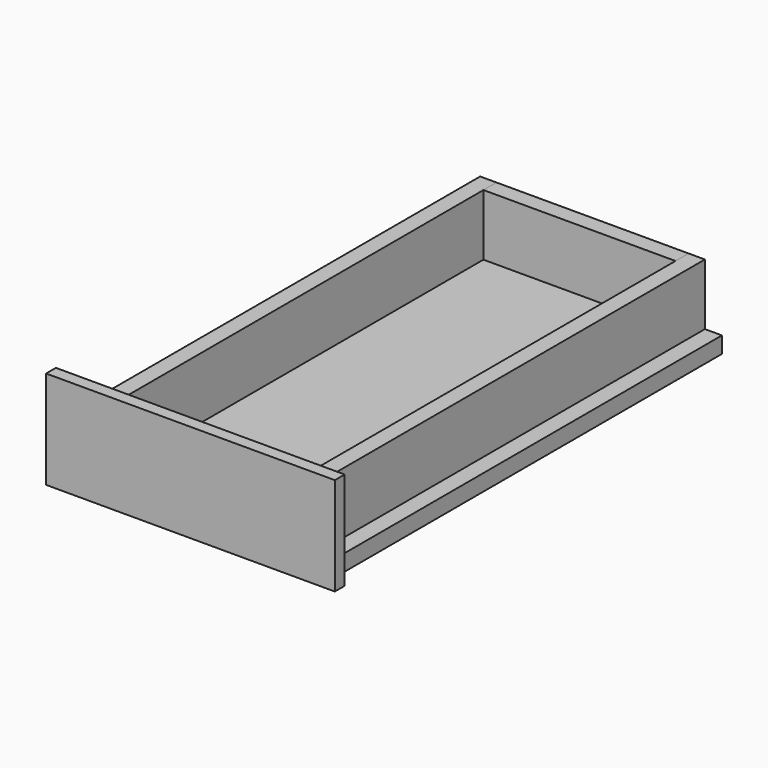
from build123d import *

# Parameters (mm, degrees)
F1_DEPTH = 45
F0_W     = 141
F0_H     = 12
F2_DEPTH = 45
F4_DEPTH = 12
F6_DEPTH = 9


with BuildPart() as f1:
    # F0 (on Top) → F1 (new body)
    with BuildSketch(Plane.XY):
        Polygon((65.376237, -180), (77.376237, -180), (77.376237, 180), (65.376237, 180), (65.376237, 168), (65.376237, -168), align=None)
        Polygon((-87.623763, -180), (-75.623763, -180), (-75.623763, -168), (-75.623763, 168), (-75.623763, 180), (-87.623763, 180), align=None)
    extrude(amount=F1_DEPTH)


with BuildPart() as f2:
    # F0 (on Top) → F2 (new body)
    with BuildSketch(Plane.XY):
        with Locations((-5.123763, 174)):
            Rectangle(F0_W, F0_H)
        with Locations((-5.123763, -174)):
            Rectangle(F0_W, F0_H)
    extrude(amount=F2_DEPTH)


with BuildPart() as f4:
    # F3 (on face) → F4 (new body)
    with BuildSketch(Plane.XY):
        Polygon((-87.623763, -180), (77.376237, -180), (89.876237, -180), (89.876237, 180), (77.376237, 180), (-87.623763, 180), (-100.123763, 180), (-100.123763, -180), align=None)
    extrude(amount=-F4_DEPTH)


with BuildPart() as f6:
    # F5 (on face) → F6 (new body)
    with BuildSketch(Plane.XZ.offset(180)):
        Polygon((-100.123763, -12), (89.876237, -12), (100.876237, -12), (100.876237, 60), (-111.123763, 60), (-111.123763, -12), align=None)
    extrude(amount=F6_DEPTH)


solid = Compound([f1.part, f2.part, f4.part, f6.part])
